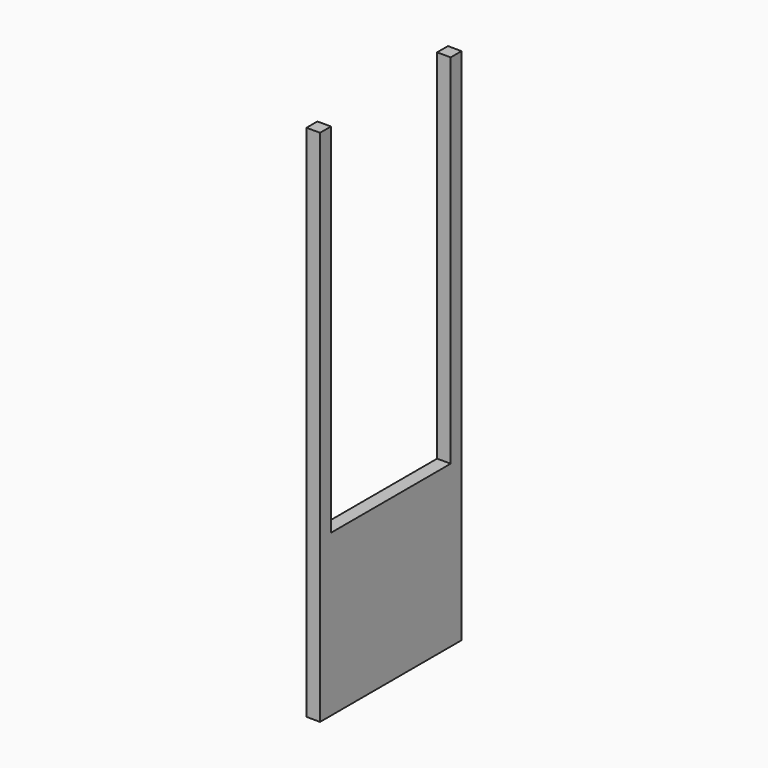
from build123d import *

# Parameters (mm, degrees)
F0_W     = 1320.8
F0_H     = 3873.5
F1_DEPTH = 101.6
F2_W     = 1117.6
F2_H     = 2671.3434
F3_DEPTH = 101.6


with BuildPart() as f1:
    # F0 (on Right) → F1 (new body)
    with BuildSketch(Plane.YZ):
        with Locations((660.4, 1936.75)):
            Rectangle(F0_W, F0_H)
    extrude(amount=F1_DEPTH)

    # F2 (on face) → F3 (cut)
    with BuildSketch(Plane(origin=(0, 0, 0), x_dir=(0, -1, 0), z_dir=(-1, 0, 0))):
        with Locations((-660.820085, 2537.8283)):
            Rectangle(F2_W, F2_H)
    extrude(amount=-F3_DEPTH, mode=Mode.SUBTRACT)


solid = f1.part
